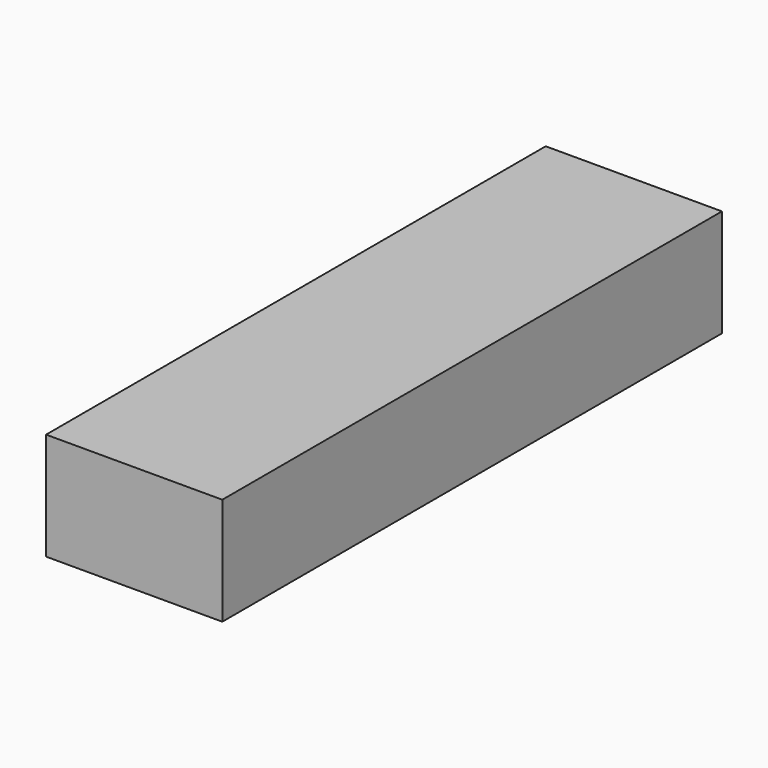
from build123d import *

# Parameters (mm, degrees)
F0_W     = 36.844064
F0_H     = 22.455461
F1_DEPTH = 58.928
F2_W     = 36.844064
F2_H     = 22.455461
F3_DEPTH = 12.7


with BuildPart() as f1:
    # F0 (on Front) → F1 (new body, symmetric)
    with BuildSketch(Plane.XZ):
        with Locations((-52.707484, 43.632816)):
            Rectangle(F0_W, F0_H)
    extrude(amount=F1_DEPTH, both=True)

    # F2 (on face) → F3 (join, symmetric)
    with BuildSketch(Plane.XZ.offset(58.928)):
        with Locations((-52.707484, 43.632816)):
            Rectangle(F2_W, F2_H)
    extrude(amount=F3_DEPTH, both=True)


solid = f1.part
